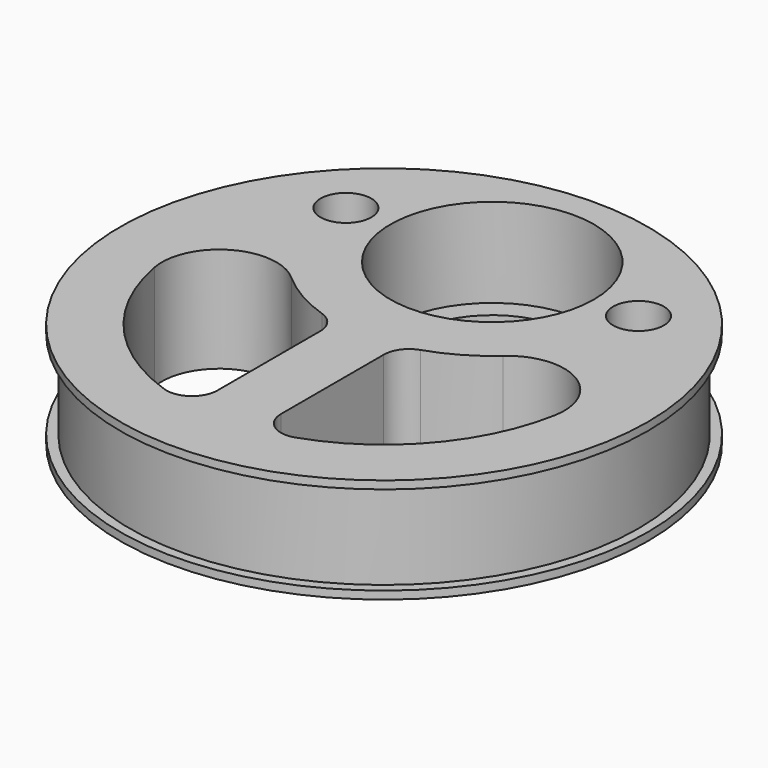
from build123d import *

# Parameters (mm, degrees)
SKETCH005_R       = 41.5
SKETCH005_R_2     = 12.75
PAD001_DEPTH      = 16.5
CYLINDER003_R     = 16
CYLINDER003_DEPTH = 25.2
CYLINDER008_R     = 4
CYLINDER008_DEPTH = 25
CYLINDER009_R     = 4
CYLINDER009_DEPTH = 25
POCKET_START      = -1.25
SKETCH084_R       = 48
SKETCH084_R_2     = 40
POCKET_DEPTH      = 14


with BuildPart() as part:
    # Sketch005 → Pad001 (new body)
    with BuildSketch(Plane.XY):
        with Locations((0, -21.25)):
            Circle(SKETCH005_R)
        Circle(SKETCH005_R_2, mode=Mode.SUBTRACT)
        with BuildLine():
            ThreePointArc((-31.480397, -26.993223), (-24.225688, -42.15732), (-10.285714, -51.551882))
            ThreePointArc((-10.285714, -51.551882), (-6.670071, -51.015521), (-5, -47.764147))
            Line((-5, -27.568098), (-5, -47.764147))
            ThreePointArc((-5, -27.568098), (-5.762291, -25.219217), (-7.758621, -23.765601))
            ThreePointArc((-16.637158, -18.660251), (-12.462129, -21.672456), (-7.758621, -23.765601))
            ThreePointArc((-16.637158, -18.660251), (-27.032318, -17.53007), (-31.480397, -26.993223))
        make_face(mode=Mode.SUBTRACT)
        with BuildLine():
            ThreePointArc((10.285714, -51.551882), (24.225688, -42.15732), (31.480397, -26.993223))
            ThreePointArc((31.480397, -26.993223), (27.032318, -17.53007), (16.637158, -18.660251))
            ThreePointArc((7.758621, -23.765601), (12.462129, -21.672456), (16.637158, -18.660251))
            ThreePointArc((7.758621, -23.765601), (5.762291, -25.219217), (5, -27.568098))
            Line((5, -27.568098), (5, -47.764147))
            ThreePointArc((5, -47.764147), (6.670071, -51.015521), (10.285714, -51.551882))
        make_face(mode=Mode.SUBTRACT)
    extrude(amount=-PAD001_DEPTH)

    # Cylinder003 → Cylinder003 (cut)
    with BuildSketch(Plane.XY.offset(-14)):
        Circle(CYLINDER003_R)
    extrude(amount=CYLINDER003_DEPTH, mode=Mode.SUBTRACT)

    # Cylinder008 → Cylinder008 (cut)
    with BuildSketch(Plane(origin=(23, 0, -13), x_dir=(1, 0, 0), z_dir=(0, 0, 1))):
        Circle(CYLINDER008_R)
    extrude(amount=CYLINDER008_DEPTH, mode=Mode.SUBTRACT)

    # Cylinder009 → Cylinder009 (cut)
    with BuildSketch(Plane(origin=(-23, 0, -13), x_dir=(1, 0, 0), z_dir=(0, 0, 1))):
        Circle(CYLINDER009_R)
    extrude(amount=CYLINDER009_DEPTH, mode=Mode.SUBTRACT)

    # Sketch084 → Pocket (cut)
    with BuildSketch(Plane.XY.offset(POCKET_START)):
        with Locations((0, -21.25)):
            Circle(SKETCH084_R)
        with Locations((0, -21.25)):
            Circle(SKETCH084_R_2, mode=Mode.SUBTRACT)
    extrude(amount=-POCKET_DEPTH, mode=Mode.SUBTRACT)


solid = part.part
